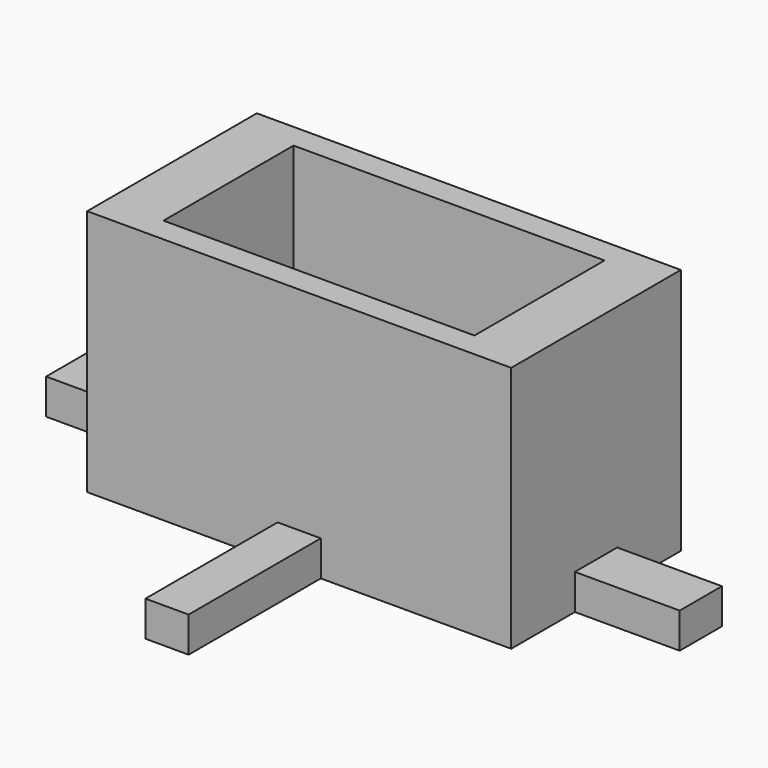
from build123d import *

# Parameters (mm, degrees)
F0_W     = 26.9435550738
F0_H     = 11.2643459439
F0_H_2   = 7.4713081121
F0_W_2   = 6.1128898524
F1_DEPTH = 35
F0_H_3   = 23.3753739297
F0_W_3   = 14.827863574
F2_DEPTH = 5
F3_W     = 44
F3_H     = 23
F4_DEPTH = 30
F6_DEPTH = 25


with BuildPart() as f1:
    # F0 (on Top) → F1 (new body)
    with BuildSketch(Plane.XY):
        with Locations((16.5282224631, 9.367827028)):
            Rectangle(F0_W, F0_H)
        with Locations((16.5282224631, -9.367827028)):
            Rectangle(F0_W, F0_H)
        with Locations((16.5282224631, 0)):
            Rectangle(F0_W, F0_H_2)
        with Locations((-16.5282224631, 9.367827028)):
            Rectangle(F0_W, F0_H)
        with Locations((-16.5282224631, 0)):
            Rectangle(F0_W, F0_H_2)
        with Locations((-16.5282224631, -9.367827028)):
            Rectangle(F0_W, F0_H)
        with Locations((0, -9.367827028)):
            Rectangle(F0_W_2, F0_H)
        Rectangle(F0_W_2, F0_H_2)
        with Locations((0, 9.367827028)):
            Rectangle(F0_W_2, F0_H)
    extrude(amount=F1_DEPTH)

    # F0 (on Top) → F2 (join)
    with BuildSketch(Plane.XY):
        with Locations((0, 26.6876869649)):
            Rectangle(F0_W_2, F0_H_3)
        with Locations((37.413931787, 0)):
            Rectangle(F0_W_3, F0_H_2)
        with Locations((-37.413931787, 0)):
            Rectangle(F0_W_3, F0_H_2)
        with Locations((0, -26.6876869649)):
            Rectangle(F0_W_2, F0_H_3)
    extrude(amount=F2_DEPTH)

    # F3 (on face) → F4 (cut)
    with BuildSketch(Plane.XY.offset(35)):
        Rectangle(F3_W, F3_H)
    extrude(amount=-F4_DEPTH, mode=Mode.SUBTRACT)

    # F5 (on face) → F6 (cut)
    with BuildSketch(Plane.YZ.offset(-22)):
        Polygon((-4.0054083802, 5), (0, 5), (0, 7.6920529827), (0, 10.3841059655), (-4.0054083802, 10.3841059655), align=None)
        Polygon((0, 7.6920529827), (0, 5), (4.0054083802, 5), (4.0054083802, 10.3841059655), (0, 10.3841059655), align=None)
    extrude(amount=-F6_DEPTH, mode=Mode.SUBTRACT)


solid = f1.part
